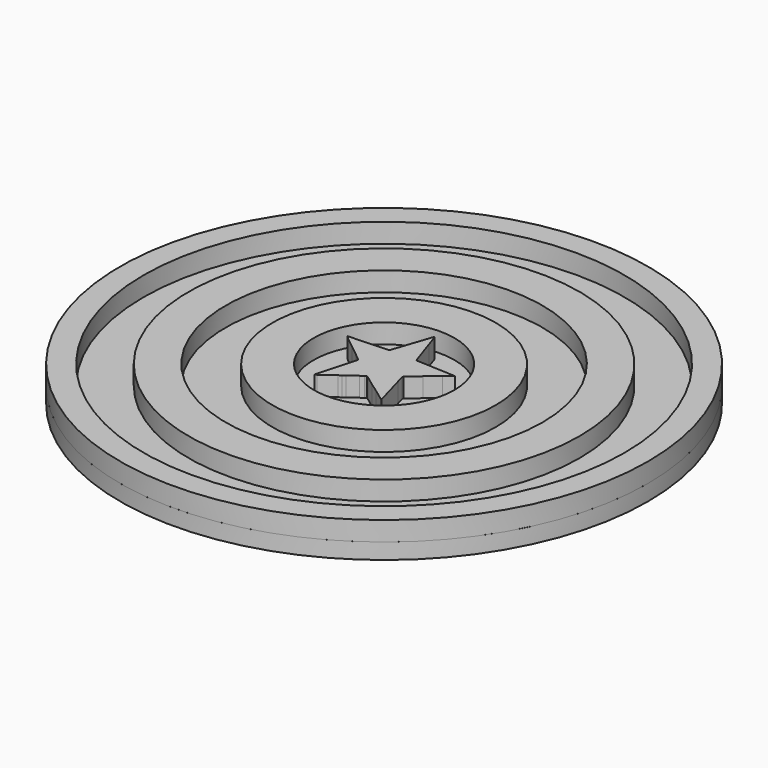
from build123d import *

# Parameters (mm, degrees)
F0_R     = 762
F0_R_2   = 694.281684
F0_R_3   = 564.34893
F0_R_4   = 457.2
F0_R_5   = 322.340952
F0_R_6   = 203.2
F1_DEPTH = 55.88
F2_R     = 762.023592
F3_DEPTH = 45.72


with BuildPart() as f1:
    # F0 (on Top) → F1 (new body)
    with BuildSketch(Plane.XY):
        Circle(F0_R)
        Circle(F0_R_2, mode=Mode.SUBTRACT)
        Circle(F0_R_3)
        Circle(F0_R_4, mode=Mode.SUBTRACT)
        Circle(F0_R_5)
        Circle(F0_R_6, mode=Mode.SUBTRACT)
        Polygon((-33.279563, 59.829675), (-149.248165, 54.567785), (-149.006052, 53.5956), (-148.393963, 52.715236), (-146.745249, 51.059842), (-111.704374, 22.996423), (-76.663499, -5.066995), (-68.320437, -12.082856), (-63.558217, -15.779801), (-59.143062, -19.975703), (-59.143062, -25.237592), (-85.840875, -120.828638), (-90.012418, -134.86036), (-90.012418, -138.368278), (-85.006561, -135.737346), (-46.628456, -107.673902), (-39.430223, -102.575411), (-32.445249, -97.150123), (-7.416063, -79.610483), (1.761312, -72.594622), (4.150411, -71.293177), (5.414493, -70.869734), (6.767144, -70.840676), (13.441604, -74.348594), (41.808019, -95.396152), (66.83723, -112.935817), (100.209477, -137.491292), (101.769316, -138.196803), (103.546707, -138.368278), (77.683208, -46.285175), (71.843062, -25.237592), (71.843062, -19.975703), (106.049623, 8.087716), (140.256209, 36.15116), (161.948165, 53.690799), (47.648165, 58.952689), (45.145249, 60.70666), (18.447436, 139.635027), (8.435772, 170.329403), (6.767144, 173.837346), (5.526456, 173.215884), (4.687697, 171.668567), (3.429914, 167.698471), (-23.267873, 87.893093), (-31.61096, 63.337592), (-32.186448, 61.431221), align=None)
    extrude(amount=F1_DEPTH)


with BuildPart() as f3:
    # F2 (on Top) → F3 (new body)
    with BuildSketch(Plane.XY):
        Circle(F2_R)
    extrude(amount=-F3_DEPTH)


solid = Compound([f1.part, f3.part])
